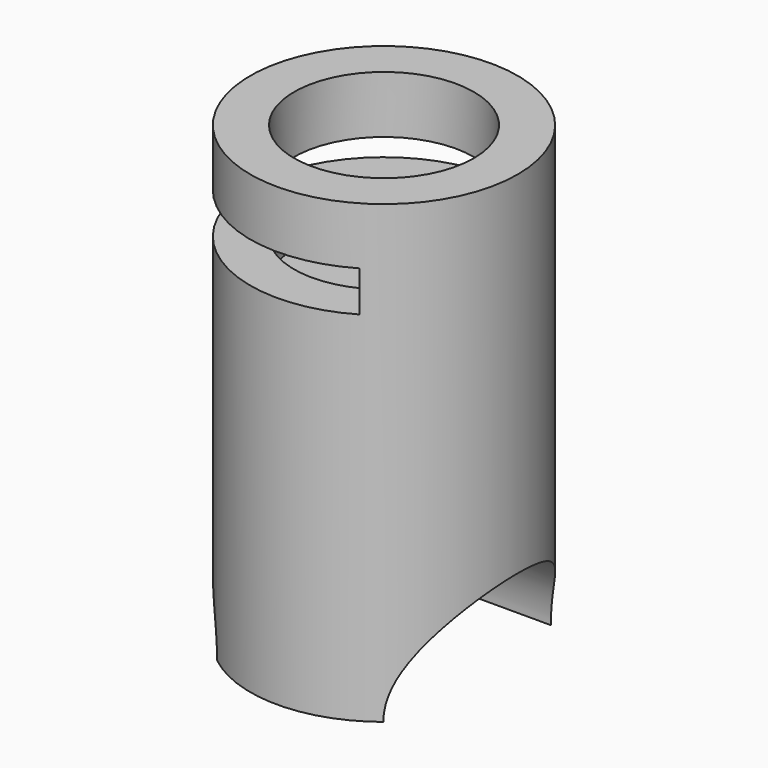
from build123d import *

# Parameters (mm, degrees)
F0_R      = 9.68375
F0_R_2    = 6.50875
F1_DEPTH  = 33.02
F3_DEPTH  = 25
F4_DEPTH  = 54.6
F6_R      = 6.50875
F7_DEPTH  = 3
F9_DEPTH  = 25
F10_DEPTH = 4.9


with BuildPart() as f1:
    # F0 (on Top) → F1 (new body)
    with BuildSketch(Plane.XY):
        Circle(F0_R)
        Circle(F0_R_2, mode=Mode.SUBTRACT)
    extrude(amount=F1_DEPTH)

    # F2 (on Right) → F3 (cut)
    with BuildSketch(Plane.YZ):
        with BuildLine():
            ThreePointArc((7.586009, 0), (0, 7.586009), (-7.586009, 0))
            Line((-7.586009, 0), (7.586009, 0))
        make_face()
    extrude(amount=-F3_DEPTH, mode=Mode.SUBTRACT)

    # F2 (on Right) → F4 (cut)
    with BuildSketch(Plane.YZ):
        with BuildLine():
            ThreePointArc((7.586009, 0), (0, 7.586009), (-7.586009, 0))
            Line((-7.586009, 0), (7.586009, 0))
        make_face()
    extrude(amount=F4_DEPTH, mode=Mode.SUBTRACT)

    # F6 (on offset) → F7 (join)
    with BuildSketch(Plane.XY.offset(20)):
        Circle(F6_R)
    extrude(amount=F7_DEPTH)

    # F8 (on Right) → F9 (cut)
    with BuildSketch(Plane.YZ):
        Polygon((10.249765, 25.931381), (10.093447, 28.872697), (-10.251949, 28.872697), (-10.251949, 25.931381), align=None)
    extrude(amount=-F9_DEPTH, mode=Mode.SUBTRACT)

    # F8 (on Right) → F10 (cut)
    with BuildSketch(Plane.YZ):
        Polygon((10.249765, 25.931381), (10.093447, 28.872697), (-10.251949, 28.872697), (-10.251949, 25.931381), align=None)
    extrude(amount=F10_DEPTH, mode=Mode.SUBTRACT)


solid = f1.part
